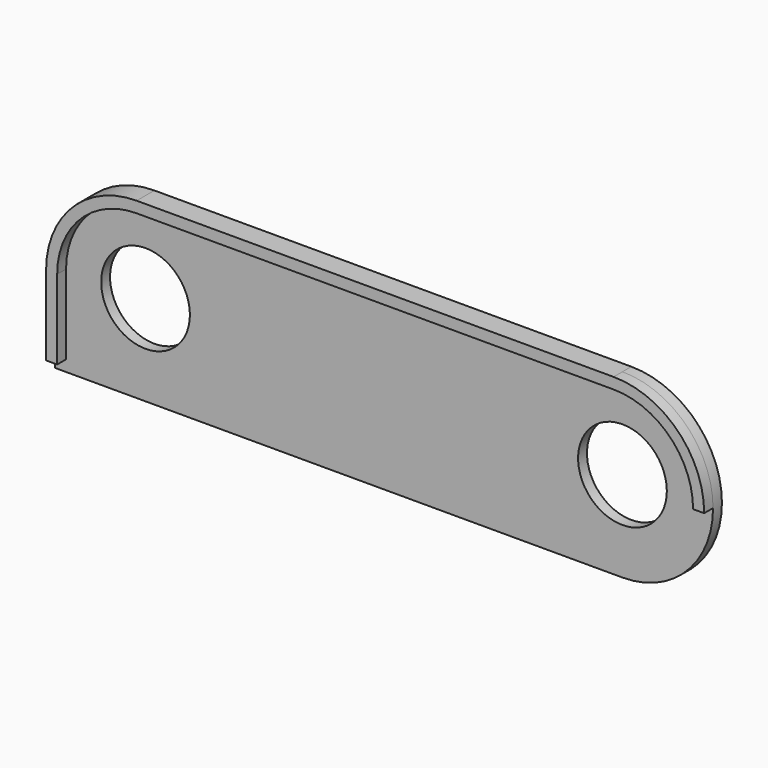
from build123d import *

# Parameters (mm, degrees)
F0_R     = 12
F1_DEPTH = 3
F3_DEPTH = 3
F4_W     = 3
F4_H     = 3
F5_DEPTH = 3


with BuildPart() as f1:
    # F0 (on Front) → F1 (new body)
    with BuildSketch(Plane.XZ):
        with BuildLine():
            ThreePointArc((64.5, -24.5), (89, 0), (64.5, 24.5))
            Line((64.5, 24.5), (-64.5, 24.5))
            ThreePointArc((-64.5, 24.5), (-81.824116, 17.324116), (-89, 0))
            ThreePointArc((-89, 0), (-81.824116, -17.324116), (-64.5, -24.5))
            Line((-64.5, -24.5), (64.5, -24.5))
        make_face()
        with Locations((-64.5, 0)):
            Circle(F0_R, mode=Mode.SUBTRACT)
        with Locations((64.5, 0)):
            Circle(F0_R, mode=Mode.SUBTRACT)
        with BuildLine():
            ThreePointArc((-64.5, -24.5), (-81.824116, -17.324116), (-89, 0))
            Line((-89, 0), (-89, -24.5))
            Line((-89, -24.5), (-64.5, -24.5))
        make_face()
    extrude(amount=F1_DEPTH)

    # F2 (on face) → F3 (join)
    with BuildSketch(Plane.XZ.offset(3)):
        with BuildLine():
            Line((-89, 0), (-89, -24.5))
            Line((-89, -24.5), (-86, -24.5))
            Line((-86, -24.5), (-86, 0))
            ThreePointArc((-86, 0), (-79.702796, 15.202796), (-64.5, 21.5))
            Line((-64.5, 21.5), (64.5, 21.5))
            ThreePointArc((64.5, 21.5), (79.702796, 15.202796), (86, 0))
            Line((86, 0), (89, 0))
            ThreePointArc((89, 0), (81.824116, 17.324116), (64.5, 24.5))
            Line((64.5, 24.5), (-64.5, 24.5))
            ThreePointArc((-64.5, 24.5), (-81.824116, 17.324116), (-89, 0))
        make_face()
    extrude(amount=F3_DEPTH)

    # F4 (on face) → F5 (cut)
    with BuildSketch(Plane.XZ.offset(6)):
        with Locations((-87.5, -23)):
            Rectangle(F4_W, F4_H)
    extrude(amount=-F5_DEPTH, mode=Mode.SUBTRACT)


solid = f1.part
